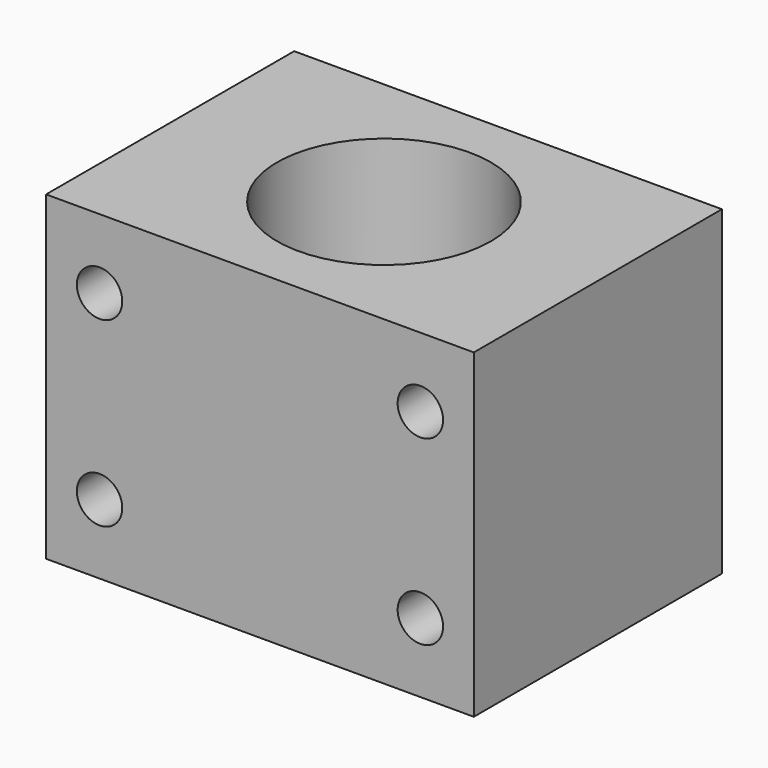
from build123d import *

# Parameters (mm, degrees)
F0_W     = 80
F0_H     = 58
F0_R     = 20
F1_DEPTH = 60
F2_R     = 4.25
F3_DEPTH = 58.001
F2_R_2   = 7
F4_DEPTH = 16


with BuildPart() as f1:
    # F0 (on Top) → F1 (new body)
    with BuildSketch(Plane.XY):
        Rectangle(F0_W, F0_H)
        Circle(F0_R, mode=Mode.SUBTRACT)
    extrude(amount=F1_DEPTH)

    # F2 (on face) → F3 (cut, through all)
    with BuildSketch(Plane(origin=(0, 29, 0), x_dir=(-1, 0, 0), z_dir=(0, 1, 0))):
        with Locations((30, 13)):
            Circle(F2_R)
        with Locations((-30, 13)):
            Circle(F2_R)
        with Locations((-30, 47)):
            Circle(F2_R)
        with Locations((30, 47)):
            Circle(F2_R)
    extrude(amount=-F3_DEPTH, mode=Mode.SUBTRACT)

    # F2 (on face) → F4 (cut)
    with BuildSketch(Plane(origin=(0, 29, 0), x_dir=(-1, 0, 0), z_dir=(0, 1, 0))):
        with Locations((30, 13)):
            Circle(F2_R_2)
        with Locations((30, 13)):
            Circle(F2_R, mode=Mode.SUBTRACT)
        with Locations((-30, 13)):
            Circle(F2_R_2)
        with Locations((-30, 13)):
            Circle(F2_R, mode=Mode.SUBTRACT)
        with Locations((-30, 47)):
            Circle(F2_R_2)
        with Locations((-30, 47)):
            Circle(F2_R, mode=Mode.SUBTRACT)
        with Locations((30, 47)):
            Circle(F2_R_2)
        with Locations((30, 47)):
            Circle(F2_R, mode=Mode.SUBTRACT)
    extrude(amount=-F4_DEPTH, mode=Mode.SUBTRACT)


solid = f1.part
